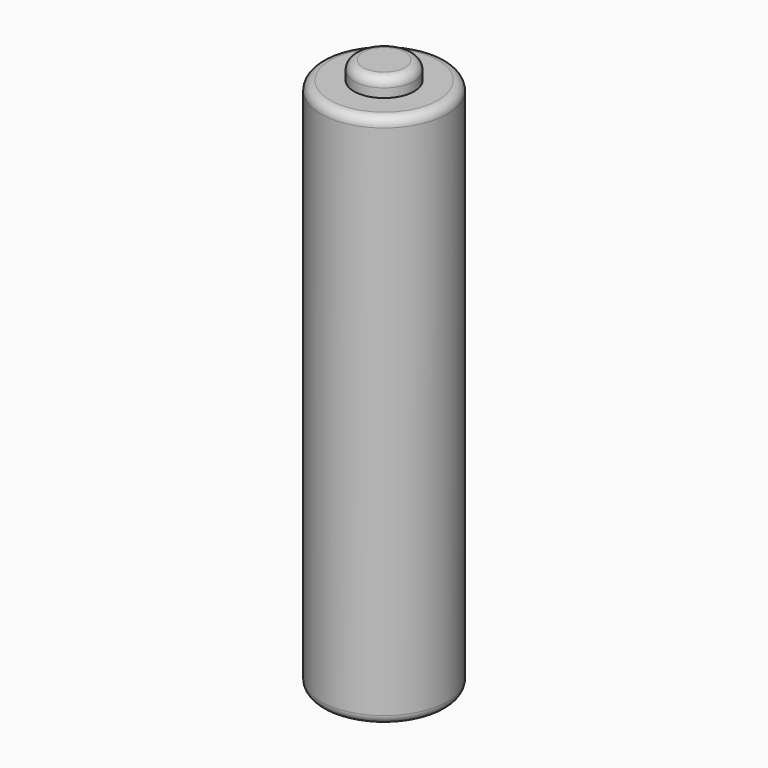
from build123d import *

# Parameters (mm, degrees)
F0_R     = 5.25
F1_DEPTH = 22.25
F2_R     = 2.5
F3_DEPTH = 1.5
F4_R     = 0.762


with BuildPart() as f1:
    # F0 (on Top) → F1 (new body, symmetric)
    with BuildSketch(Plane.XY):
        Circle(F0_R)
    extrude(amount=F1_DEPTH, both=True)

    # F2 (on face) → F3 (join)
    with BuildSketch(Plane.XY.offset(22.25)):
        Circle(F2_R)
    extrude(amount=F3_DEPTH)

    # F4
    f4_edges = [f1.edges().sort_by_distance(p)[0] for p in [
        (-2.5, 0, 23.75),
        (-5.25, 0, -22.25),
        (-5.25, 0, 22.25),
    ]]
    fillet(f4_edges, radius=F4_R)


solid = f1.part
